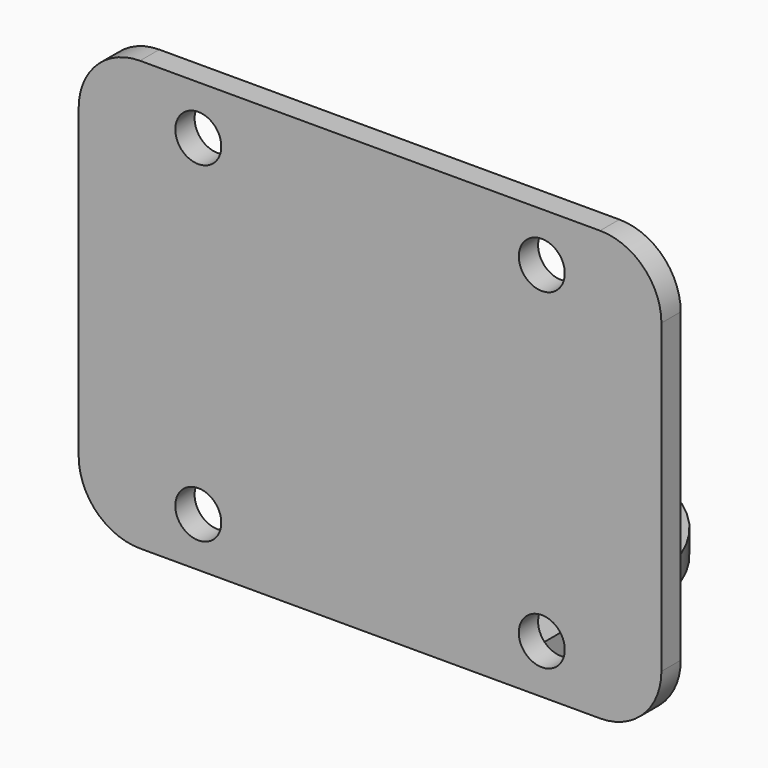
from build123d import *

# Parameters (mm, degrees)
F1_DEPTH = 2
F2_W     = 48.26
F2_H     = 2
F3_DEPTH = 33.56
F5_D     = 3.81
F6_R     = 5.08
F7_D     = 2


with BuildPart() as f1:
    # F0 (on Top) → F1 (new body)
    with BuildSketch(Plane.XY):
        with BuildLine():
            ThreePointArc((0, -11.94943), (8.449523, -8.449523), (11.94943, 0))
            ThreePointArc((11.94943, 0), (0, 11.94943), (-11.94943, 0))
            ThreePointArc((-11.94943, 0), (-8.449523, -8.449523), (0, -11.94943))
        make_face()
        with BuildLine():
            ThreePointArc((0, 3.5), (2.474874, 2.474874), (3.5, 0))
            ThreePointArc((3.5, 0), (2.474874, -2.474874), (0, -3.5))
            ThreePointArc((0, -3.5), (-2.474874, -2.474874), (-3.5, 0))
            ThreePointArc((-3.5, 0), (-2.474874, 2.474874), (0, 3.5))
        make_face(mode=Mode.SUBTRACT)
        with BuildLine():
            Line((11.94943, -11.94943), (11.94943, 0))
            ThreePointArc((11.94943, 0), (8.449523, -8.449523), (0, -11.94943))
            Line((0, -11.94943), (11.94943, -11.94943))
        make_face()
        with BuildLine():
            ThreePointArc((0, -11.94943), (-8.449523, -8.449523), (-11.94943, 0))
            Line((-11.94943, 0), (-11.94943, -11.94943))
            Line((-11.94943, -11.94943), (0, -11.94943))
        make_face()
        Polygon((11.94943, -11.94943), (0, -11.94943), (-11.94943, -11.94943), (-24.13, -11.94943), (-24.13, -13.94943), (24.13, -13.94943), (24.13, -11.94943), align=None)
    extrude(amount=-F1_DEPTH)

    # F2 (on face) → F3 (join)
    with BuildSketch(Plane.XY):
        with Locations((0, -12.94943)):
            Rectangle(F2_W, F2_H)
    extrude(amount=F3_DEPTH)

    # F5 (through all)
    with Locations(Plane.XZ.offset(13.94943)):
        with Locations((-14.224, 29.496), (14.224, 29.496), (14.224, 2.064), (-14.224, 2.064)):
            Hole(F5_D / 2)

    # F6
    f6_edges = [f1.edges().sort_by_distance(p)[0] for p in [
        (24.13, -12.94943, 33.56),
        (-24.13, -12.94943, 33.56),
        (-24.13, -12.94943, -2),
        (24.13, -12.94943, -2),
    ]]
    fillet(f6_edges, radius=F6_R)

    # F7 (through all)
    with Locations(Plane.XY):
        with Locations((0, -8.5), (8.5, 0), (-8.5, 0), (0, 8.5)):
            Hole(F7_D / 2)


solid = f1.part
